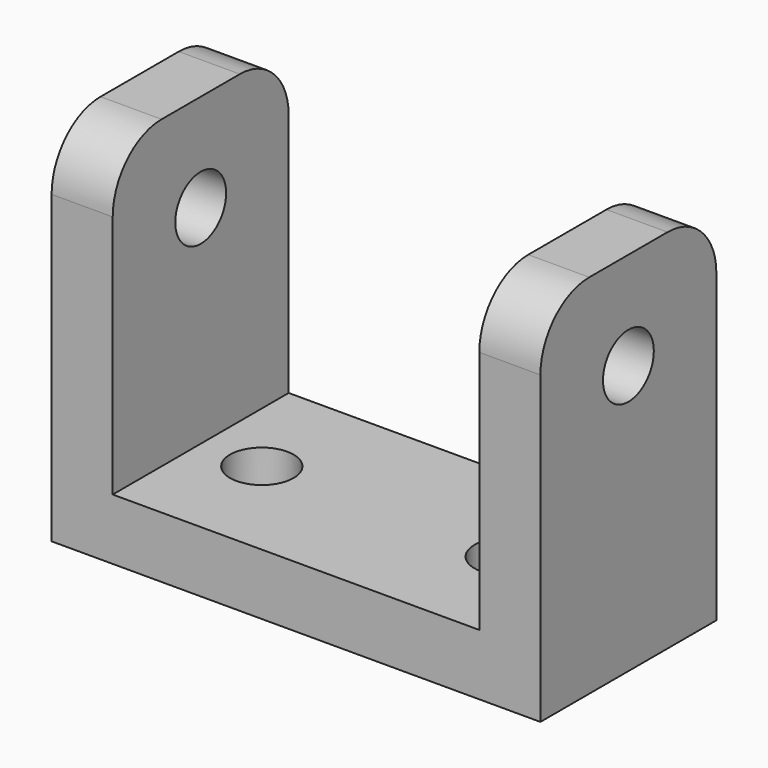
from build123d import *

# Parameters (mm, degrees)
SKETCH_W     = 40
SKETCH_H     = 18
SKETCH_R     = 2.6
PAD_DEPTH    = 5
SKETCH001_W  = 5
SKETCH001_H  = 18
PAD001_DEPTH = 25
SKETCH002_R  = 2.6
POCKET_DEPTH = 40.001
FILLET_R     = 5


with BuildPart() as part:
    # Sketch → Pad (new body)
    with BuildSketch(Plane.XY):
        Rectangle(SKETCH_W, SKETCH_H)
        with Locations((10, 0)):
            Circle(SKETCH_R, mode=Mode.SUBTRACT)
        with Locations((-10, 0)):
            Circle(SKETCH_R, mode=Mode.SUBTRACT)
    extrude(amount=PAD_DEPTH)

    # Sketch001 (on Face8 of Pad) → Pad001 (join)
    with BuildSketch(Plane.XY.offset(5)):
        with Locations((-17.5, 0)):
            Rectangle(SKETCH001_W, SKETCH001_H)
        with Locations((17.5, 0)):
            Rectangle(SKETCH001_W, SKETCH001_H)
    extrude(amount=PAD001_DEPTH)

    # Sketch002 (on Face15 of Pad001) → Pocket (cut, through all)
    with BuildSketch(Plane.YZ.offset(20)):
        with Locations((0, 22)):
            Circle(SKETCH002_R)
    extrude(amount=-POCKET_DEPTH, mode=Mode.SUBTRACT)

    # Fillet
    fillet_edges = [part.edges().sort_by_distance(p)[0] for p in [
        (17.5, -9, 30),
        (17.5, 9, 30),
        (-17.5, 9, 30),
        (-17.5, -9, 30),
    ]]
    fillet(fillet_edges, radius=FILLET_R)


solid = part.part
